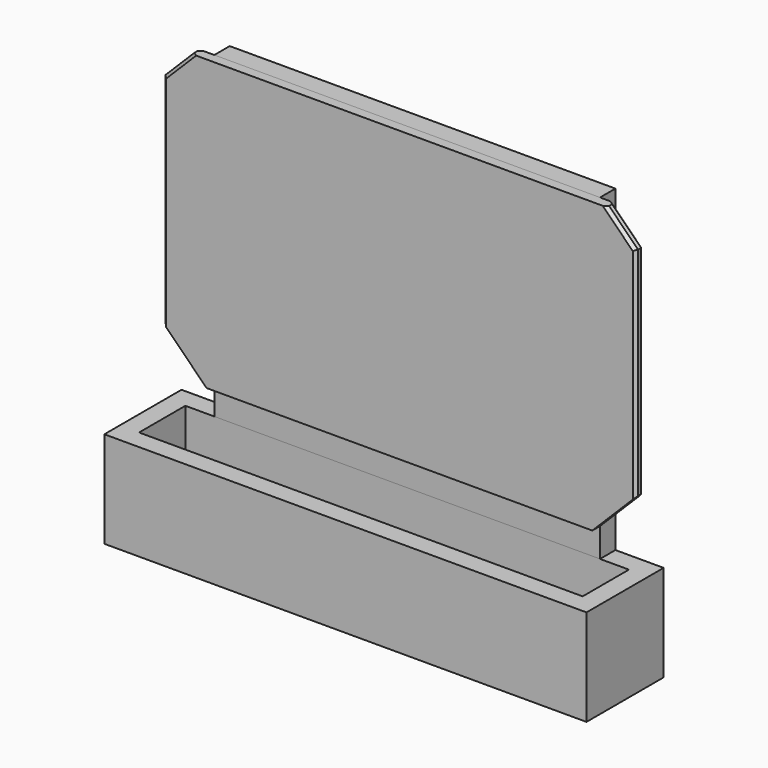
from build123d import *

# Parameters (mm, degrees)
BOX044_W        = 40
BOX044_H        = 2
BOX044_DEPTH    = 43
BOX045_W        = 46
BOX045_H        = 6
BOX045_DEPTH    = 8
BOX_W           = 50
BOX_H           = 10
BOX_DEPTH       = 10
BOX046_W        = 49
BOX046_H        = 1
BOX046_DEPTH    = 30
CHAMFER_SIZE    = 4.5
CHAMFER001_SIZE = 3
CHAMFER002_SIZE = 0.3
CHAMFER003_SIZE = 0.3


with BuildPart() as cube039:
    # Box044 → Box044 (new body)
    with BuildSketch(Plane(origin=(5, 8, 0), x_dir=(1, 0, 0), z_dir=(0, 0, 1))):
        with Locations((20, 1)):
            Rectangle(BOX044_W, BOX044_H)
    extrude(amount=BOX044_DEPTH)


with BuildPart() as cube040:
    # Box045 → Box045 (new body)
    with BuildSketch(Plane(origin=(2, 2, 2), x_dir=(1, 0, 0), z_dir=(0, 0, 1))):
        with Locations((23, 3)):
            Rectangle(BOX045_W, BOX045_H)
    extrude(amount=BOX045_DEPTH)


with BuildPart() as cut:
    # Box → Box (new body)
    with BuildSketch(Plane.XY):
        with Locations((25, 5)):
            Rectangle(BOX_W, BOX_H)
    extrude(amount=BOX_DEPTH)

    # Cut: cut Cube040
    add(cube040.part, mode=Mode.SUBTRACT)


with BuildPart() as chamfer003:
    # Box046 → Box046 (new body)
    with BuildSketch(Plane(origin=(0.5, 6, 12), x_dir=(1, 0, 0), z_dir=(0, 0, 1))):
        with Locations((24.5, 0.5)):
            Rectangle(BOX046_W, BOX046_H)
    extrude(amount=BOX046_DEPTH)

    # Chamfer
    chamfer_edges = [chamfer003.edges().sort_by_distance(p)[0] for p in [
        (0.5, 6.5, 12),
        (49.5, 6.5, 12),
    ]]
    chamfer(chamfer_edges, length=CHAMFER_SIZE)


with BuildPart() as chamfer003_1:
    # Chamfer placement: moved
    add(chamfer003.part.moved(Location((0, 1, 1))))

    # Chamfer001
    chamfer001_edges = [chamfer003_1.edges().sort_by_distance(p)[0] for p in [
        (0.5, 7.5, 43),
        (49.5, 7.5, 43),
    ]]
    chamfer(chamfer001_edges, length=CHAMFER001_SIZE)

    # Chamfer002
    chamfer002_edges = [chamfer003_1.edges().sort_by_distance(p)[0] for p in [
        (0.5, 7, 28.75),
        (0.5, 8, 28.75),
        (49.5, 7, 28.75),
        (49.5, 8, 28.75),
    ]]
    chamfer(chamfer002_edges, length=CHAMFER002_SIZE)

    # Chamfer003
    chamfer003_edges = [chamfer003_1.edges().sort_by_distance(p)[0] for p in [
        (2.15, 7, 41.65),
        (2.15, 8, 41.65),
        (47.85, 7, 41.65),
        (47.85, 8, 41.65),
    ]]
    chamfer(chamfer003_edges, length=CHAMFER003_SIZE)


solid = Compound([cube039.part, cut.part, chamfer003_1.part])
